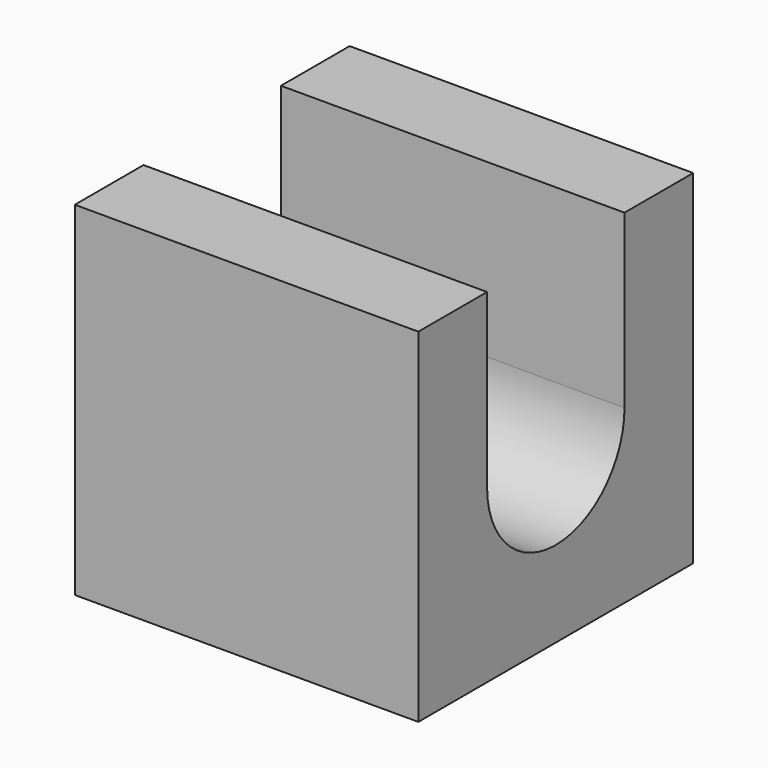
from build123d import *

# Parameters (mm, degrees)
F1_DEPTH = 25.4


with BuildPart() as f1:
    # F0 (on Right) → F1 (new body)
    with BuildSketch(Plane.YZ):
        with BuildLine():
            Line((-15.059949, 39.178113), (-21.409949, 39.178113))
            Line((-21.409949, 39.178113), (-21.409949, 13.778113))
            Line((-21.409949, 13.778113), (3.990051, 13.778113))
            Line((3.990051, 13.778113), (3.990051, 39.178113))
            Line((3.990051, 39.178113), (-2.359949, 39.178113))
            Line((-2.359949, 39.178113), (-2.359949, 26.478113))
            ThreePointArc((-2.359949, 26.478113), (-8.709949, 20.128113), (-15.059949, 26.478113))
            Line((-15.059949, 26.478113), (-15.059949, 39.178113))
        make_face()
    extrude(amount=F1_DEPTH)


solid = f1.part
